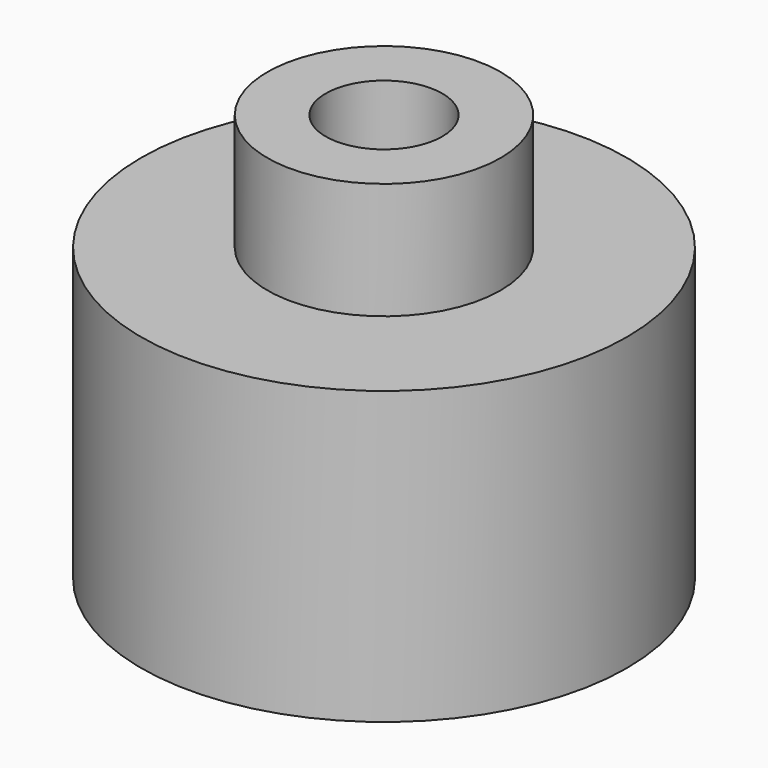
from build123d import *


with BuildPart() as part:
    # Sketch → Revolution (revolve)
    with BuildSketch(Plane.XZ):
        Polygon((3, 0), (12.5, 0), (12.5, 15), (6, 15), (6, 21), (3, 21), align=None)
    revolve(axis=Axis((0, 0, 0), (0, 0, 1)))


solid = part.part
